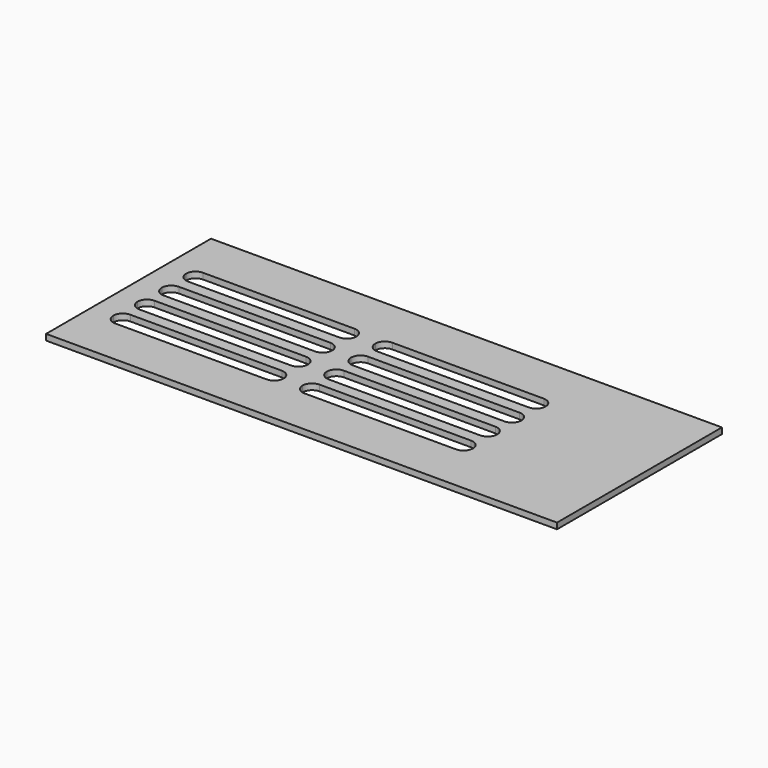
from build123d import *

# Parameters (mm, degrees)
F0_W     = 171.404824
F0_H     = 69.152255
F1_DEPTH = 2


with BuildPart() as f1:
    # F0 (on Top) → F1 (new body)
    with BuildSketch(Plane.XY):
        with Locations((-17.920554, 5.48158)):
            Rectangle(F0_W, F0_H)
        with BuildLine():
            Line((-42.359268, -13.179387), (-93.159268, -13.179387))
            ThreePointArc((-93.159268, -13.179387), (-95.404332, -12.249451), (-96.334268, -10.004387))
            ThreePointArc((-96.334268, -10.004387), (-95.404332, -7.759322), (-93.159268, -6.829387))
            Line((-93.159268, -6.829387), (-42.359268, -6.829387))
            ThreePointArc((-42.359268, -6.829387), (-40.114204, -7.759322), (-39.184268, -10.004387))
            ThreePointArc((-39.184268, -10.004387), (-40.114204, -12.249451), (-42.359268, -13.179387))
        make_face(mode=Mode.SUBTRACT)
        with BuildLine():
            Line((-42.359268, -3.019387), (-93.159268, -3.019387))
            ThreePointArc((-93.159268, -3.019387), (-95.404332, -2.089451), (-96.334268, 0.155613))
            ThreePointArc((-96.334268, 0.155613), (-95.404332, 2.400678), (-93.159268, 3.330613))
            Line((-93.159268, 3.330613), (-42.359268, 3.330613))
            ThreePointArc((-42.359268, 3.330613), (-40.114204, 2.400678), (-39.184268, 0.155613))
            ThreePointArc((-39.184268, 0.155613), (-40.114204, -2.089451), (-42.359268, -3.019387))
        make_face(mode=Mode.SUBTRACT)
        with BuildLine():
            Line((21.140732, -13.179387), (-29.659268, -13.179387))
            ThreePointArc((-29.659268, -13.179387), (-31.904332, -12.249451), (-32.834268, -10.004387))
            ThreePointArc((-32.834268, -10.004387), (-31.904332, -7.759322), (-29.659268, -6.829387))
            Line((-29.659268, -6.829387), (21.140732, -6.829387))
            ThreePointArc((21.140732, -6.829387), (23.385796, -7.759322), (24.315732, -10.004387))
            ThreePointArc((24.315732, -10.004387), (23.385796, -12.249451), (21.140732, -13.179387))
        make_face(mode=Mode.SUBTRACT)
        with BuildLine():
            Line((21.140732, -3.019387), (-29.659268, -3.019387))
            ThreePointArc((-29.659268, -3.019387), (-31.904332, -2.089451), (-32.834268, 0.155613))
            ThreePointArc((-32.834268, 0.155613), (-31.904332, 2.400678), (-29.659268, 3.330613))
            Line((-29.659268, 3.330613), (21.140732, 3.330613))
            ThreePointArc((21.140732, 3.330613), (23.385796, 2.400678), (24.315732, 0.155613))
            ThreePointArc((24.315732, 0.155613), (23.385796, -2.089451), (21.140732, -3.019387))
        make_face(mode=Mode.SUBTRACT)
        with BuildLine():
            Line((-42.359268, 7.140613), (-93.159268, 7.140613))
            ThreePointArc((-93.159268, 7.140613), (-95.404332, 8.070549), (-96.334268, 10.315613))
            ThreePointArc((-96.334268, 10.315613), (-95.404332, 12.560678), (-93.159268, 13.490613))
            Line((-93.159268, 13.490613), (-42.359268, 13.490613))
            ThreePointArc((-42.359268, 13.490613), (-40.114204, 12.560678), (-39.184268, 10.315613))
            ThreePointArc((-39.184268, 10.315613), (-40.114204, 8.070549), (-42.359268, 7.140613))
        make_face(mode=Mode.SUBTRACT)
        with BuildLine():
            ThreePointArc((-96.334268, 20.475613), (-95.404332, 22.720678), (-93.159268, 23.650613))
            Line((-93.159268, 23.650613), (-42.359268, 23.650613))
            ThreePointArc((-42.359268, 23.650613), (-40.114204, 22.720678), (-39.184268, 20.475613))
            ThreePointArc((-39.184268, 20.475613), (-40.114204, 18.230549), (-42.359268, 17.300613))
            Line((-42.359268, 17.300613), (-93.159268, 17.300613))
            ThreePointArc((-93.159268, 17.300613), (-95.404332, 18.230549), (-96.334268, 20.475613))
        make_face(mode=Mode.SUBTRACT)
        with BuildLine():
            Line((21.140732, 7.140613), (-29.659268, 7.140613))
            ThreePointArc((-29.659268, 7.140613), (-31.904332, 8.070549), (-32.834268, 10.315613))
            ThreePointArc((-32.834268, 10.315613), (-31.904332, 12.560678), (-29.659268, 13.490613))
            Line((-29.659268, 13.490613), (21.140732, 13.490613))
            ThreePointArc((21.140732, 13.490613), (23.385796, 12.560678), (24.315732, 10.315613))
            ThreePointArc((24.315732, 10.315613), (23.385796, 8.070549), (21.140732, 7.140613))
        make_face(mode=Mode.SUBTRACT)
        with BuildLine():
            Line((21.140732, 17.300613), (-29.659268, 17.300613))
            ThreePointArc((-29.659268, 17.300613), (-31.904332, 18.230549), (-32.834268, 20.475613))
            ThreePointArc((-32.834268, 20.475613), (-31.904332, 22.720678), (-29.659268, 23.650613))
            Line((-29.659268, 23.650613), (21.140732, 23.650613))
            ThreePointArc((21.140732, 23.650613), (23.385796, 22.720678), (24.315732, 20.475613))
            ThreePointArc((24.315732, 20.475613), (23.385796, 18.230549), (21.140732, 17.300613))
        make_face(mode=Mode.SUBTRACT)
    extrude(amount=F1_DEPTH)


solid = f1.part
